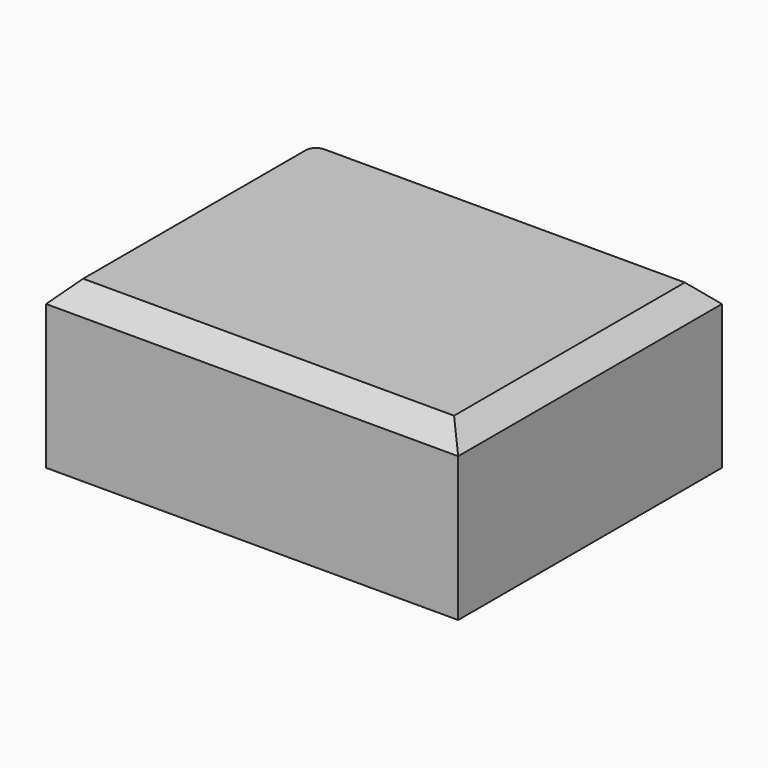
from build123d import *

# Parameters (mm, degrees)
F1_DEPTH = 50.8
F2_SIZE  = 6.35


with BuildPart() as f1:
    # F0 (on Top) → F1 (new body)
    with BuildSketch(Plane.XY):
        with BuildLine():
            Line((63.5, 49.093626), (-53.975, 49.093626))
            ThreePointArc((-53.975, 49.093626), (-60.710192, 46.303818), (-63.5, 39.568626))
            Line((-63.5, 39.568626), (-63.5, -52.506374))
            Line((-63.5, -52.506374), (63.5, -52.506374))
            Line((63.5, -52.506374), (63.5, 49.093626))
        make_face()
    extrude(amount=F1_DEPTH)

    # F2
    f2_edges = [f1.edges().sort_by_distance(p)[0] for p in [
        (0, -52.506374, 50.8),
        (63.5, -1.706374, 50.8),
        (4.7625, 49.093626, 50.8),
        (-60.710192, 46.303818, 50.8),
        (-63.5, -6.468874, 50.8),
    ]]
    chamfer(f2_edges, length=F2_SIZE)


solid = f1.part
